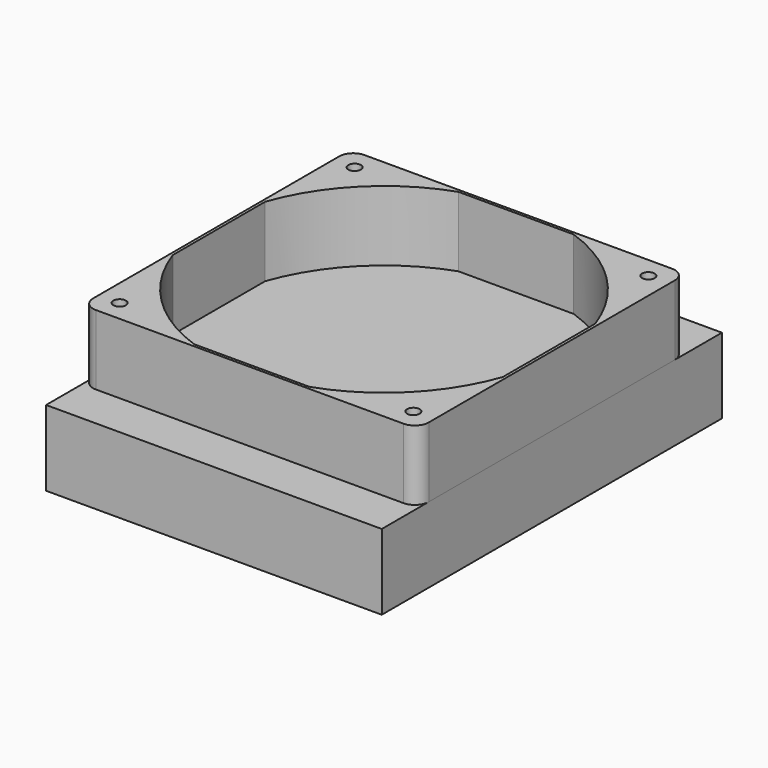
from build123d import *

# Parameters (mm, degrees)
F0_R     = 2.25
F1_DEPTH = 25
F2_W     = 120
F2_H     = 152
F2_R     = 1.5
F3_DEPTH = 27


with BuildPart() as f1:
    # F0 (on Top) → F1 (new body)
    with BuildSketch(Plane.XY):
        with BuildLine():
            ThreePointArc((60, 55), (58.535534, 58.535534), (55, 60))
            Line((55, 60), (-55, 60))
            ThreePointArc((-55, 60), (-58.535534, 58.535534), (-60, 55))
            Line((-60, 55), (-60, -55))
            ThreePointArc((-60, -55), (-58.535534, -58.535534), (-55, -60))
            Line((-55, -60), (55, -60))
            ThreePointArc((55, -60), (58.535534, -58.535534), (60, -55))
            Line((60, -55), (60, 55))
        make_face()
        with Locations((-52.5, -52.5)):
            Circle(F0_R, mode=Mode.SUBTRACT)
        with Locations((52.5, -52.5)):
            Circle(F0_R, mode=Mode.SUBTRACT)
        with Locations((-52.5, 52.5)):
            Circle(F0_R, mode=Mode.SUBTRACT)
        with BuildLine():
            ThreePointArc((-59, 20.621591), (-44.194174, 44.194174), (-20.621591, 59))
            Line((-20.621591, 59), (20.621591, 59))
            ThreePointArc((20.621591, 59), (44.194174, 44.194174), (59, 20.621591))
            Line((59, 20.621591), (59, -20.621591))
            ThreePointArc((59, -20.621591), (44.194174, -44.194174), (20.621591, -59))
            Line((20.621591, -59), (-20.621591, -59))
            ThreePointArc((-20.621591, -59), (-44.194174, -44.194174), (-59, -20.621591))
            Line((-59, -20.621591), (-59, 20.621591))
        make_face(mode=Mode.SUBTRACT)
        with Locations((52.5, 52.5)):
            Circle(F0_R, mode=Mode.SUBTRACT)
    extrude(amount=F1_DEPTH)


with BuildPart() as f3:
    # F2 (on Top) → F3 (new body)
    with BuildSketch(Plane.XY):
        Rectangle(F2_W, F2_H)
        with Locations((-52.5, -52.5)):
            Circle(F2_R, mode=Mode.SUBTRACT)
        with Locations((52.5, -52.5)):
            Circle(F2_R, mode=Mode.SUBTRACT)
        with Locations((-52.5, 52.5)):
            Circle(F2_R, mode=Mode.SUBTRACT)
        with Locations((52.5, 52.5)):
            Circle(F2_R, mode=Mode.SUBTRACT)
    extrude(amount=-F3_DEPTH)


solid = Compound([f1.part, f3.part])
